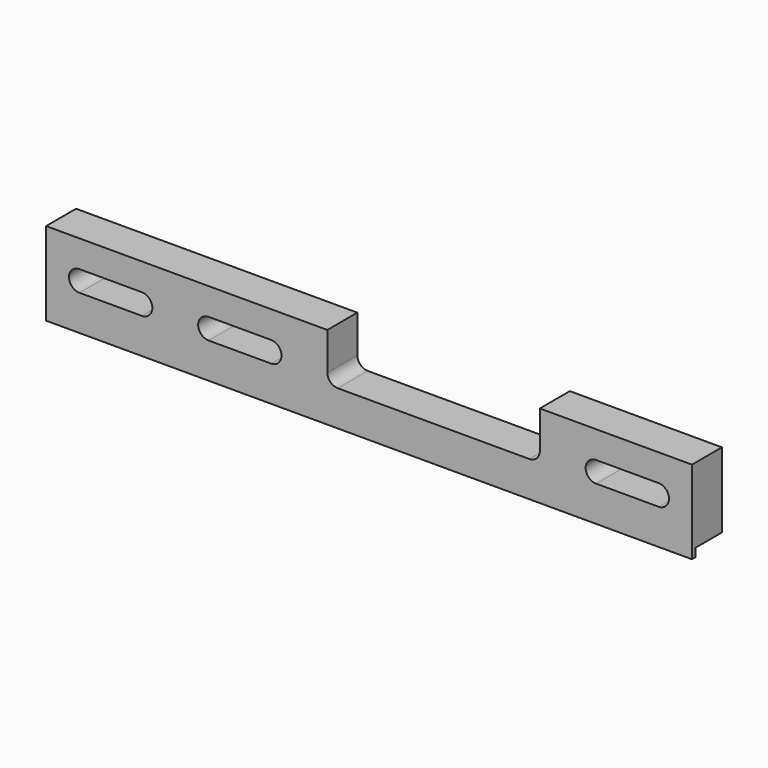
from build123d import *

# Parameters (mm, degrees)
F1_DEPTH = 18
F2_W     = 16
F2_H     = 4
F3_DEPTH = 400
F5_D     = 6
F5_DEPTH = 8
F5_TIP   = 1.8025818571


with BuildPart() as f1:
    # F0 (on Front) → F1 (new body)
    with BuildSketch(Plane.XZ):
        with BuildLine():
            Line((-489.9862787309, 20.9100212359), (-179.9862787309, 20.9100212359))
            Line((-179.9862787309, 20.9100212359), (-179.9862787309, 60.9100212359))
            Line((-179.9862787309, 60.9100212359), (-252.9862787309, 60.9100212359))
            Line((-252.9862787309, 60.9100212359), (-252.9862787309, 42.9100212359))
            ThreePointArc((-252.9862787309, 42.9100212359), (-254.450744825, 39.37448733), (-257.9862787309, 37.9100212359))
            Line((-257.9862787309, 37.9100212359), (-349.9862787309, 37.9100212359))
            ThreePointArc((-349.9862787309, 37.9100212359), (-353.5218126368, 39.37448733), (-354.9862787309, 42.9100212359))
            Line((-354.9862787309, 42.9100212359), (-354.9862787309, 60.9100212359))
            Line((-354.9862787309, 60.9100212359), (-489.9862787309, 60.9100212359))
            Line((-489.9862787309, 60.9100212359), (-489.9862787309, 20.9100212359))
        make_face()
        with BuildLine():
            Line((-443.9862787309, 37.9100212359), (-473.9862787309, 37.9100212359))
            ThreePointArc((-473.9862787309, 37.9100212359), (-478.9862787309, 42.9100212359), (-473.9862787309, 47.9100212359))
            Line((-473.9862787309, 47.9100212359), (-443.9862787309, 47.9100212359))
            ThreePointArc((-443.9862787309, 47.9100212359), (-438.9862787309, 42.9100212359), (-443.9862787309, 37.9100212359))
        make_face(mode=Mode.SUBTRACT)
        with BuildLine():
            Line((-381.9862787309, 37.9100212359), (-411.9862787309, 37.9100212359))
            ThreePointArc((-411.9862787309, 37.9100212359), (-416.9862787309, 42.9100212359), (-411.9862787309, 47.9100212359))
            Line((-411.9862787309, 47.9100212359), (-381.9862787309, 47.9100212359))
            ThreePointArc((-381.9862787309, 47.9100212359), (-376.9862787309, 42.9100212359), (-381.9862787309, 37.9100212359))
        make_face(mode=Mode.SUBTRACT)
        with BuildLine():
            Line((-195.9862787309, 37.9100212359), (-225.9862787309, 37.9100212359))
            ThreePointArc((-225.9862787309, 37.9100212359), (-230.9862787309, 42.9100212359), (-225.9862787309, 47.9100212359))
            Line((-225.9862787309, 47.9100212359), (-195.9862787309, 47.9100212359))
            ThreePointArc((-195.9862787309, 47.9100212359), (-190.9862787309, 42.9100212359), (-195.9862787309, 37.9100212359))
        make_face(mode=Mode.SUBTRACT)
    extrude(amount=F1_DEPTH)

    # F2 (on face) → F3 (cut)
    with BuildSketch(Plane.YZ.offset(-179.9862787309)):
        with Locations((-8, 22.9100212359)):
            Rectangle(F2_W, F2_H)
    extrude(amount=-F3_DEPTH, mode=Mode.SUBTRACT)

    # F5
    with Locations(Plane(origin=(0, 0, 24.9100212359), x_dir=(1, 0, 0), z_dir=(0, 0, -1))):
        with Locations((-242.9862787309, 11), (-422.9862787309, 11)):
            Hole(F5_D / 2, depth=F5_DEPTH)
            with Locations((0, 0, -(F5_DEPTH + F5_TIP / 2))):  # 118° drill point
                Cone(0, F5_D / 2, F5_TIP, mode=Mode.SUBTRACT)


solid = f1.part
